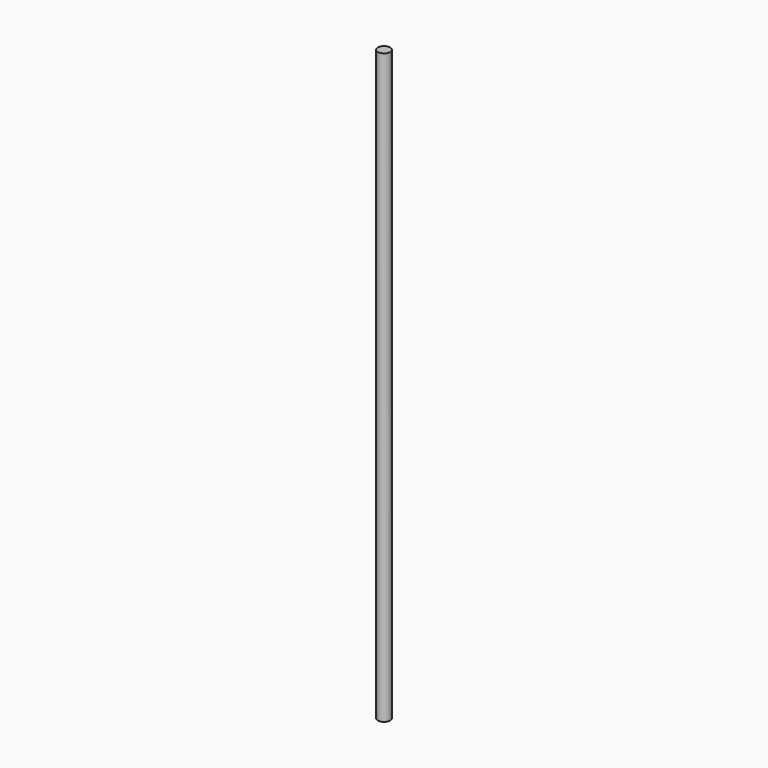
from build123d import *

# Parameters (mm, degrees)
SKETCH_R  = 4
PAD_DEPTH = 380


with BuildPart() as part:
    # Sketch → Pad (new body)
    with BuildSketch(Plane.XY):
        Circle(SKETCH_R)
    extrude(amount=PAD_DEPTH)


solid = part.part
